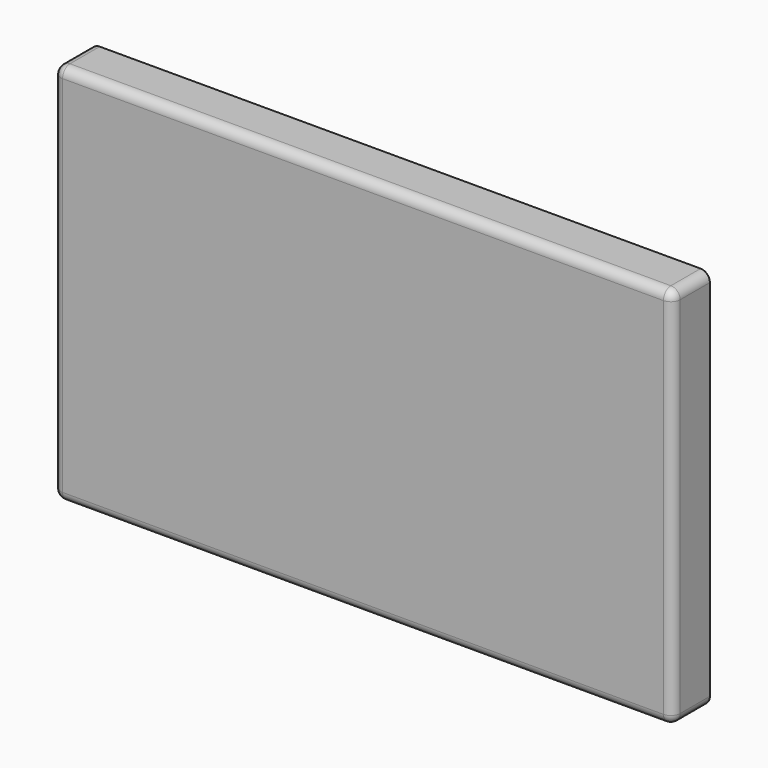
from build123d import *

# Parameters (mm, degrees)
F1_DEPTH = 15
F2_R     = 3
F5_R     = 3.980371
F6_DEPTH = 13


with BuildPart() as f1:
    # F0 (on Front) → F1 (new body)
    with BuildSketch(Plane.XZ):
        Polygon((23.606798, 61.803399), (-100, 61.803399), (-100, -61.803399), (23.606798, -61.803399), (100, -61.803399), (100, 61.803399), align=None)
    extrude(amount=F1_DEPTH)

    # F2
    f2_edges = [f1.edges().sort_by_distance(p)[0] for p in [
        (-100, -7.5, 61.803399),
        (100, -7.5, 61.803399),
        (-100, -7.5, -61.803399),
        (100, -7.5, -61.803399),
        (0, -15, 61.803399),
        (-100, -15, 0),
        (0, -15, -61.803399),
        (100, -15, 0),
    ]]
    fillet(f2_edges, radius=F2_R)

    # F5 (on face) → F6 (cut)
    with BuildSketch(Plane(origin=(0, 0, 0), x_dir=(-1, 0, 0), z_dir=(0, 1, 0))):
        with Locations((-90.167262, 50.612085)):
            Circle(F5_R)
        with Locations((-90.167262, 30.612085)):
            Circle(F5_R)
        with Locations((-90.167262, 10.612085)):
            Circle(F5_R)
        with Locations((-90.167262, -9.387915)):
            Circle(F5_R)
        with Locations((-90.167262, -29.387915)):
            Circle(F5_R)
        with Locations((-90.167262, -49.387915)):
            Circle(F5_R)
        with Locations((-70.167262, 50.612085)):
            Circle(F5_R)
        with Locations((-70.167262, 30.612085)):
            Circle(F5_R)
        with Locations((-70.167262, 10.612085)):
            Circle(F5_R)
        with Locations((-70.167262, -9.387915)):
            Circle(F5_R)
        with Locations((-70.167262, -29.387915)):
            Circle(F5_R)
        with Locations((-70.167262, -49.387915)):
            Circle(F5_R)
        with Locations((-50.167262, 50.612085)):
            Circle(F5_R)
        with Locations((-50.167262, 30.612085)):
            Circle(F5_R)
        with Locations((-50.167262, 10.612085)):
            Circle(F5_R)
        with Locations((-50.167262, -9.387915)):
            Circle(F5_R)
        with Locations((-50.167262, -29.387915)):
            Circle(F5_R)
        with Locations((-50.167262, -49.387915)):
            Circle(F5_R)
        with Locations((-30.167262, 50.612085)):
            Circle(F5_R)
        with Locations((-30.167262, 30.612085)):
            Circle(F5_R)
        with Locations((-30.167262, 10.612085)):
            Circle(F5_R)
        with Locations((-30.167262, -9.387915)):
            Circle(F5_R)
        with Locations((-30.167262, -29.387915)):
            Circle(F5_R)
        with Locations((-30.167262, -49.387915)):
            Circle(F5_R)
        with Locations((-10.167262, 50.612085)):
            Circle(F5_R)
        with Locations((-10.167262, 30.612085)):
            Circle(F5_R)
        with Locations((-10.167262, 10.612085)):
            Circle(F5_R)
        with Locations((-10.167262, -9.387915)):
            Circle(F5_R)
        with Locations((-10.167262, -29.387915)):
            Circle(F5_R)
        with Locations((-10.167262, -49.387915)):
            Circle(F5_R)
        with Locations((9.832738, 50.612085)):
            Circle(F5_R)
        with Locations((9.832738, 30.612085)):
            Circle(F5_R)
        with Locations((9.832738, 10.612085)):
            Circle(F5_R)
        with Locations((9.832738, -9.387915)):
            Circle(F5_R)
        with Locations((9.832738, -29.387915)):
            Circle(F5_R)
        with Locations((9.832738, -49.387915)):
            Circle(F5_R)
        with Locations((29.832738, 50.612085)):
            Circle(F5_R)
        with Locations((29.832738, 30.612085)):
            Circle(F5_R)
        with Locations((29.832738, 10.612085)):
            Circle(F5_R)
        with Locations((29.832738, -9.387915)):
            Circle(F5_R)
        with Locations((29.832738, -29.387915)):
            Circle(F5_R)
        with Locations((29.832738, -49.387915)):
            Circle(F5_R)
        with Locations((49.832738, 50.612085)):
            Circle(F5_R)
        with Locations((49.832738, 30.612085)):
            Circle(F5_R)
        with Locations((49.832738, 10.612085)):
            Circle(F5_R)
        with Locations((49.832738, -9.387915)):
            Circle(F5_R)
        with Locations((49.832738, -29.387915)):
            Circle(F5_R)
        with Locations((49.832738, -49.387915)):
            Circle(F5_R)
        with Locations((69.832738, 50.612085)):
            Circle(F5_R)
        with Locations((69.832738, 30.612085)):
            Circle(F5_R)
        with Locations((69.832738, 10.612085)):
            Circle(F5_R)
        with Locations((69.832738, -9.387915)):
            Circle(F5_R)
        with Locations((69.832738, -29.387915)):
            Circle(F5_R)
        with Locations((69.832738, -49.387915)):
            Circle(F5_R)
        with Locations((89.832738, 50.612085)):
            Circle(F5_R)
        with Locations((89.832738, 30.612085)):
            Circle(F5_R)
        with Locations((89.832738, 10.612085)):
            Circle(F5_R)
        with Locations((89.832738, -9.387915)):
            Circle(F5_R)
        with Locations((89.832738, -29.387915)):
            Circle(F5_R)
        with Locations((89.832738, -49.387915)):
            Circle(F5_R)
        with Locations((-80.167262, 40.612085)):
            Circle(F5_R)
        with Locations((-80.167262, 20.612085)):
            Circle(F5_R)
        with Locations((-80.167262, 0.612085)):
            Circle(F5_R)
        with Locations((-80.167262, -19.387915)):
            Circle(F5_R)
        with Locations((-80.167262, -39.387915)):
            Circle(F5_R)
        with Locations((-60.167262, 40.612085)):
            Circle(F5_R)
        with Locations((-60.167262, 20.612085)):
            Circle(F5_R)
        with Locations((-60.167262, 0.612085)):
            Circle(F5_R)
        with Locations((-60.167262, -19.387915)):
            Circle(F5_R)
        with Locations((-60.167262, -39.387915)):
            Circle(F5_R)
        with Locations((-40.167262, 40.612085)):
            Circle(F5_R)
        with Locations((-40.167262, 20.612085)):
            Circle(F5_R)
        with Locations((-40.167262, 0.612085)):
            Circle(F5_R)
        with Locations((-40.167262, -19.387915)):
            Circle(F5_R)
        with Locations((-40.167262, -39.387915)):
            Circle(F5_R)
        with Locations((-20.167262, 40.612085)):
            Circle(F5_R)
        with Locations((-20.167262, 20.612085)):
            Circle(F5_R)
        with Locations((-20.167262, 0.612085)):
            Circle(F5_R)
        with Locations((-20.167262, -19.387915)):
            Circle(F5_R)
        with Locations((-20.167262, -39.387915)):
            Circle(F5_R)
        with Locations((-0.167262, 40.612085)):
            Circle(F5_R)
        with Locations((-0.167262, 20.612085)):
            Circle(F5_R)
        with Locations((-0.167262, 0.612085)):
            Circle(F5_R)
        with Locations((-0.167262, -19.387915)):
            Circle(F5_R)
        with Locations((-0.167262, -39.387915)):
            Circle(F5_R)
        with Locations((19.832738, 40.612085)):
            Circle(F5_R)
        with Locations((19.832738, 20.612085)):
            Circle(F5_R)
        with Locations((19.832738, 0.612085)):
            Circle(F5_R)
        with Locations((19.832738, -19.387915)):
            Circle(F5_R)
        with Locations((19.832738, -39.387915)):
            Circle(F5_R)
        with Locations((39.832738, 40.612085)):
            Circle(F5_R)
        with Locations((39.832738, 20.612085)):
            Circle(F5_R)
        with Locations((39.832738, 0.612085)):
            Circle(F5_R)
        with Locations((39.832738, -19.387915)):
            Circle(F5_R)
        with Locations((39.832738, -39.387915)):
            Circle(F5_R)
        with Locations((59.832738, 40.612085)):
            Circle(F5_R)
        with Locations((59.832738, 20.612085)):
            Circle(F5_R)
        with Locations((59.832738, 0.612085)):
            Circle(F5_R)
        with Locations((59.832738, -19.387915)):
            Circle(F5_R)
        with Locations((59.832738, -39.387915)):
            Circle(F5_R)
        with Locations((79.832738, 40.612085)):
            Circle(F5_R)
        with Locations((79.832738, 20.612085)):
            Circle(F5_R)
        with Locations((79.832738, 0.612085)):
            Circle(F5_R)
        with Locations((79.832738, -19.387915)):
            Circle(F5_R)
        with Locations((79.832738, -39.387915)):
            Circle(F5_R)
    extrude(amount=-F6_DEPTH, mode=Mode.SUBTRACT)


solid = f1.part
